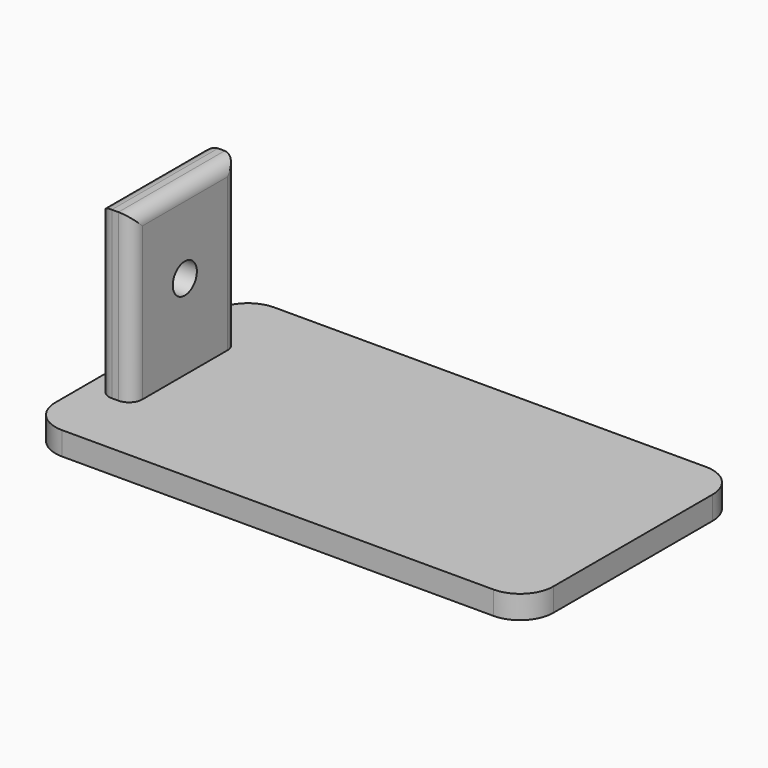
from build123d import *

# Parameters (mm, degrees)
F0_W     = 2.5
F0_H     = 20
F1_DEPTH = 3.5
F0_W_2   = 5
F2_DEPTH = 28.5
F3_R     = 2.271243
F4_DEPTH = 5
F5_R     = 2


with BuildPart() as f1:
    # F0 (on Top) → F1 (new body)
    with BuildSketch(Plane.XY):
        with BuildLine():
            Line((15.000003, 19.129753), (-49.999997, 19.129753))
            ThreePointArc((-49.999997, 19.129753), (-53.535531, 17.665286), (-54.999997, 14.129753))
            Line((-54.999997, 14.129753), (-54.999997, 9.129753))
            Line((-54.999997, 9.129753), (-52.499997, 9.129753))
            Line((-52.499997, 9.129753), (-47.499997, 9.129753))
            Line((-47.499997, 9.129753), (-44.999997, 9.129753))
            Line((-44.999997, 9.129753), (-44.999997, -10.870247))
            Line((-44.999997, -10.870247), (-47.499997, -10.870247))
            Line((-47.499997, -10.870247), (-52.499997, -10.870247))
            Line((-52.499997, -10.870247), (-54.999997, -10.870247))
            Line((-54.999997, -10.870247), (-54.999997, -15.870247))
            ThreePointArc((-54.999997, -15.870247), (-53.535531, -19.405781), (-49.999997, -20.870247))
            Line((-49.999997, -20.870247), (15.000003, -20.870247))
            ThreePointArc((15.000003, -20.870247), (18.535537, -19.405781), (20.000003, -15.870247))
            Line((20.000003, -15.870247), (20.000003, 14.129753))
            ThreePointArc((20.000003, 14.129753), (18.535537, 17.665286), (15.000003, 19.129753))
        make_face()
        with Locations((-53.749997, -0.870247)):
            Rectangle(F0_W, F0_H)
        with Locations((-46.249997, -0.870247)):
            Rectangle(F0_W, F0_H)
    extrude(amount=F1_DEPTH)

    # F0 (on Top) → F2 (join)
    with BuildSketch(Plane.XY):
        with Locations((-49.999997, -0.870247)):
            Rectangle(F0_W_2, F0_H)
    extrude(amount=F2_DEPTH)

    # F3 (on face) → F4 (cut)
    with BuildSketch(Plane(origin=(-52.499997, 0, 0), x_dir=(0, -1, 0), z_dir=(-1, 0, 0))):
        with Locations((0.870247, 16.3)):
            Circle(F3_R)
    extrude(amount=-F4_DEPTH, mode=Mode.SUBTRACT)

    # F5
    f5_edges = [f1.edges().sort_by_distance(p)[0] for p in [
        (-52.499997, -0.870247, 28.5),
        (-47.499997, -0.870247, 28.5),
        (-47.499997, -10.870247, 16),
        (-52.499997, -10.870247, 16),
        (-52.499997, 9.129753, 16),
        (-47.499997, 9.129753, 16),
    ]]
    fillet(f5_edges, radius=F5_R)


solid = f1.part
